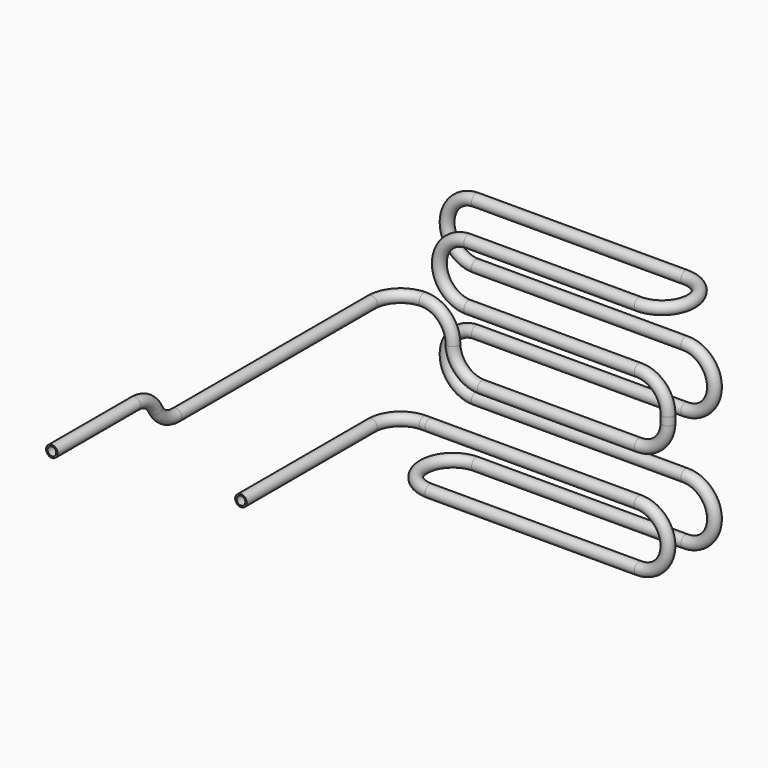
from build123d import *

# Parameters (mm, degrees)
F2_R      = 4.7625
F2_R_2    = 3.5179
F6_R      = 4.7625
F6_R_2    = 3.5179
F10_R     = 4.7625
F10_R_2   = 3.5179
F13_R     = 4.7625
F13_R_2   = 3.5179
F16_R     = 4.7625
F16_R_2   = 3.5179
F17_DEPTH = 73.025
F18_R     = 4.7625
F18_R_2   = 3.5179
F23_R     = 4.7625
F23_R_2   = 3.5179
F25_R     = 6.1981589045
F26_DEPTH = 68.2625
F29_R     = 4.7625
F29_R_2   = 3.5179
F31_R     = 4.7625
F31_R_2   = 3.5179
F32_DEPTH = 133.65988
F33_R     = 4.7625
F33_R_2   = 3.5179
F34_DEPTH = 200.23328
F37_R     = 4.7625
F37_R_2   = 3.5179


with BuildPart() as f3:
    # F3: sweep along a path in F0
    with BuildLine(Plane.XZ) as f3_path:
        Line((-55.7347305506, 0), (115.7152694494, 0))
        ThreePointArc((115.7152694494, 0), (139.5277694494, -23.8125), (115.7152694494, -47.625))
        Line((115.7152694494, -47.625), (-55.7347305506, -47.625))
    # F2 (on plane+point) → F3 (sweep)
    with BuildSketch(Plane.YZ.offset(-55.7347305506)):
        Circle(F2_R)
        Circle(F2_R_2, mode=Mode.SUBTRACT)
    sweep(path=f3_path.line)

    # F7: sweep along a path in F5
    with BuildLine(Plane.XY.offset(-47.625)) as f7_path:
        ThreePointArc((-55.7347305506, 47.625), (-79.5472305506, 23.8125), (-55.7347305506, 0))
    # F6 (on face) → F7 (sweep)
    with BuildSketch(Plane(origin=(-55.7347305506, 0, 0), x_dir=(0, -1, 0), z_dir=(-1, 0, 0))):
        with Locations((0, -47.625)):
            Circle(F6_R)
        with Locations((0, -47.625)):
            Circle(F6_R_2, mode=Mode.SUBTRACT)
    sweep(path=f7_path.line)

    # F11: sweep along a path in F9
    with BuildLine(Plane.XZ.offset(-47.625)) as f11_path:
        Line((-55.7347305506, -47.625), (115.7152694494, -47.625))
        ThreePointArc((115.7152694494, -47.625), (139.5277694494, -23.8125), (115.7152694494, 0))
        Line((115.7152694494, 0), (-55.7347305506, 0))
        ThreePointArc((-55.7347305506, 0), (-79.5472305506, 23.8125), (-55.7347305506, 47.625))
        Line((-55.7347305506, 47.625), (115.7152694494, 47.625))
        ThreePointArc((115.7152694494, 47.625), (139.5277694494, 71.4375), (115.7152694494, 95.25))
        Line((115.7152694494, 95.25), (-55.7347305506, 95.25))
        ThreePointArc((-55.7347305506, 95.25), (-79.5472305506, 119.0625), (-55.7347305506, 142.875))
        Line((-55.7347305506, 142.875), (115.7152694494, 142.875))
    # F10 (on face) → F11 (sweep)
    with BuildSketch(Plane.YZ.offset(-55.7347305506)):
        with Locations((47.625, -47.625)):
            Circle(F10_R)
        with Locations((47.625, -47.625)):
            Circle(F10_R_2, mode=Mode.SUBTRACT)
    sweep(path=f11_path.line)

    # F15: sweep along a path in F14
    with BuildLine(Plane.XY.offset(142.875)) as f15_path:
        ThreePointArc((115.7152694494, 0), (139.5277694494, 23.8125), (115.7152694494, 47.625))
    # F13 (on face) → F15 (sweep)
    with BuildSketch(Plane.YZ.offset(115.7152694494)):
        with Locations((47.625, 142.875)):
            Circle(F13_R)
        with Locations((47.625, 142.875)):
            Circle(F13_R_2, mode=Mode.SUBTRACT)
    sweep(path=f15_path.line)

    # F16 (on face) → F17 (join)
    with BuildSketch(Plane(origin=(-55.7347305506, 0, 0), x_dir=(0, -1, 0), z_dir=(-1, 0, 0))):
        Circle(F16_R)
        Circle(F16_R_2, mode=Mode.SUBTRACT)
    extrude(amount=F17_DEPTH)

    # F20: sweep along a path in F19
    with BuildLine(Plane.XZ) as f20_path:
        Line((115.7152694494, 142.875), (-23.9847305506, 142.875))
        ThreePointArc((-23.9847305506, 142.875), (-47.7972305506, 119.0625), (-23.9847305506, 95.25))
        Line((-23.9847305506, 95.25), (115.7152694494, 95.25))
        ThreePointArc((115.7152694494, 95.25), (132.5532496764, 88.275480227), (139.5277694494, 71.4375))
        Line((139.5277694494, 71.4375), (139.5277694494, 65.0875))
        ThreePointArc((139.5277694494, 65.0875), (132.5532496764, 48.249519773), (115.7152694494, 41.275))
        Line((115.7152694494, 41.275), (-12.8722305506, 41.275))
        ThreePointArc((-12.8722305506, 41.275), (-29.7102107777, 48.249519773), (-36.6847305506, 65.0875))
        ThreePointArc((-36.6847305506, 65.0875), (-43.6592503236, 81.925480227), (-60.4972305506, 88.9))
    # F18 (on face) → F20 (sweep)
    with BuildSketch(Plane(origin=(115.7152694494, 0, 0), x_dir=(0, -1, 0), z_dir=(-1, 0, 0))):
        with Locations((0, 142.875)):
            Circle(F18_R)
        with Locations((0, 142.875)):
            Circle(F18_R_2, mode=Mode.SUBTRACT)
    sweep(path=f20_path.line)

    # F24: sweep along a path in F22
    with BuildLine(Plane.XY.offset(88.9)) as f24_path:
        ThreePointArc((-60.4972305506, 0), (-77.3352107777, -6.974519773), (-84.3097305506, -23.8125))
    # F23 (on face) → F24 (sweep)
    with BuildSketch(Plane(origin=(-60.4972305506, 0, 0), x_dir=(0, -1, 0), z_dir=(-1, 0, 0))):
        with Locations((0, 88.9)):
            Circle(F23_R)
        with Locations((0, 88.9)):
            Circle(F23_R_2, mode=Mode.SUBTRACT)
    sweep(path=f24_path.line)

    # F25 (on face) → F26 (cut)
    with BuildSketch(Plane(origin=(-128.7597305506, 0, 0), x_dir=(0, -1, 0), z_dir=(-1, 0, 0))):
        Circle(F25_R)
    extrude(amount=-F26_DEPTH, mode=Mode.SUBTRACT)

    # F30: sweep along a path in F28
    with BuildLine(Plane.XY) as f30_path:
        ThreePointArc((-60.4972305506, 0), (-77.3352107777, -6.974519773), (-84.3097305506, -23.8125))
    # F29 (on face) → F30 (sweep)
    with BuildSketch(Plane(origin=(-60.4972305506, 0, 0), x_dir=(0, -1, 0), z_dir=(-1, 0, 0))):
        Circle(F29_R)
        Circle(F29_R_2, mode=Mode.SUBTRACT)
    sweep(path=f30_path.line)

    # F31 (on face) → F32 (join)
    with BuildSketch(Plane.XZ.offset(23.8125)):
        with Locations((-84.3097305506, 0)):
            Circle(F31_R)
        with Locations((-84.3097305506, 0)):
            Circle(F31_R_2, mode=Mode.SUBTRACT)
    extrude(amount=F32_DEPTH)

    # F33 (on face) → F34 (join)
    with BuildSketch(Plane.XZ.offset(23.8125)):
        with Locations((-84.3097305506, 88.9)):
            Circle(F33_R)
        with Locations((-84.3097305506, 88.9)):
            Circle(F33_R_2, mode=Mode.SUBTRACT)
    extrude(amount=F34_DEPTH)

    # F38: sweep along a path in F36
    with BuildLine(Plane.YZ.offset(-84.3097305506)) as f38_path:
        ThreePointArc((-224.04578, 88.9), (-236.3425021242, 92.3206932814), (-245.1063474188, 101.6))
        ThreePointArc((-245.1063474188, 101.6), (-253.8701927133, 110.8793067186), (-266.1669148375, 114.3))
        Line((-266.1669148375, 114.3), (-351.1476948375, 114.3))
    # F37 (on face) → F38 (sweep)
    with BuildSketch(Plane.XZ.offset(224.04578)):
        with Locations((-84.3097305506, 88.9)):
            Circle(F37_R)
        with Locations((-84.3097305506, 88.9)):
            Circle(F37_R_2, mode=Mode.SUBTRACT)
    sweep(path=f38_path.line)


solid = f3.part
